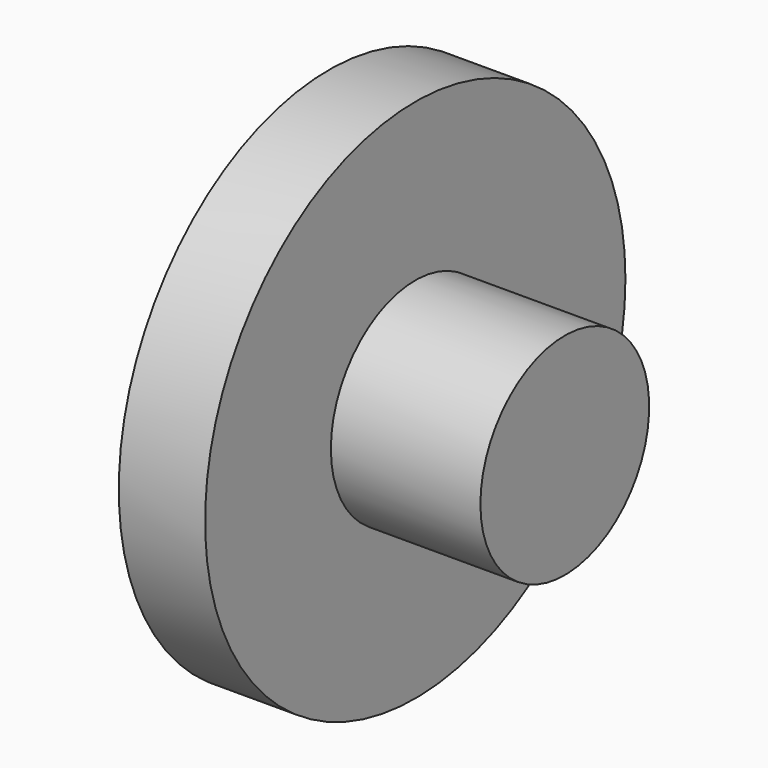
from build123d import *

# Parameters (mm, degrees)
F0_R     = 154.638826
F1_DEPTH = 50.8
F2_R     = 62.080972
F3_DEPTH = 138.819963


with BuildPart() as f1:
    # F0 (on Right) → F1 (new body)
    with BuildSketch(Plane.YZ):
        Circle(F0_R)
    extrude(amount=F1_DEPTH)

    # F2 (on face) → F3 (join)
    with BuildSketch(Plane(origin=(0, 0, 0), x_dir=(0, -1, 0), z_dir=(-1, 0, 0))):
        Circle(F2_R)
    extrude(amount=-F3_DEPTH)


solid = f1.part
